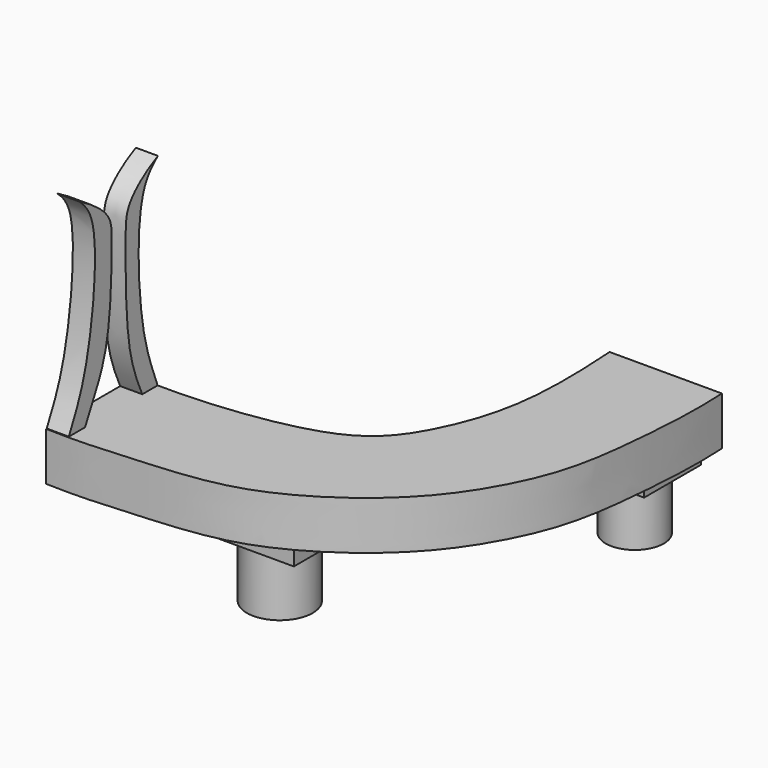
from build123d import *

# Parameters (mm, degrees)
F1_R     = 7.0155570226
F2_DEPTH = 18.542
F3_R     = 7.9467646893
F4_DEPTH = 18.542
F7_DEPTH = 5.334
F8_DEPTH = 11.684
F0_W     = 20.7544714212
F0_H     = 17.746578902
F0_W_2   = 19.8521018028
F0_H_2   = 17.1450003982
F9_DEPTH = 4.318


with BuildPart() as f2:
    # F1 (on Top) → F2 (new body)
    with BuildSketch(Plane.XY):
        with Locations((76.8517106771, 54.442897439)):
            Circle(F1_R)
    extrude(amount=-F2_DEPTH)



with BuildPart() as f4:
    # F3 (on Top) → F4 (new body)
    with BuildSketch(Plane.XY):
        with Locations((41.960131377, -9.023684077)):
            Circle(F3_R)
    extrude(amount=-F4_DEPTH)


with BuildPart() as f7:
    # F6 (on Right) → F7 (new body)
    with BuildSketch(Plane.YZ):
        with BuildLine():
            add(Edge.make_bspline(
                [(-27.004128322, 11.4234443754), (-24.9170712549, 15.6206381214), (-20.4925139948, 24.3371562752), (-17.3602385126, 54.0539118613), (-22.0986272096, 58.9304288492), (-23.8349272719, 60.4167338461)],
                knots=[0, 0, 0, 0, 0.323201421, 0.7663718509, 1, 1, 1, 1], degree=3))
            Line((-27.004128322, 11.4234443754), (-22.0986272096, 11.4234443754))
            add(Edge.make_bspline(
                [(-23.8349272719, 60.4167338461), (-20.3755259414, 58.5333244768), (-13.8305290902, 54.1752420005), (-13.9828351318, 46.9464555143), (-14.1446804387, 24.1753330063), (-19.9336931034, 16.1872758203), (-22.0986272096, 11.4234443754)],
                knots=[0, 0, 0, 0, 0.2285560301, 0.4078773473, 0.7293386816, 1, 1, 1, 1], degree=3))
        make_face()
    extrude(amount=F7_DEPTH)


with BuildPart() as f7b:
    # F6 (on Right) → F7, piece 2 (new body)
    with BuildSketch(Plane.YZ):
        with BuildLine():
            Line((-4.5958016999, 11.4234443754), (0, 11.4234443754))
            add(Edge.make_bspline(
                [(0, 11.4234443754), (-1.5558292644, 15.6668477759), (-5.6052633039, 24.4549985378), (-6.7930231719, 54.1771953118), (-1.846077584, 58.9573064034), (0, 60.4167338461)],
                knots=[0, 0, 0, 0, 0.3197343851, 0.7628518919, 1, 1, 1, 1], degree=3))
            add(Edge.make_bspline(
                [(0, 60.4167338461), (-3.8426967978, 58.6067863753), (-9.5985845649, 54.1181159991), (-9.7955748005, 46.9674516518), (-9.7992443925, 24.4412973301), (-6.835249773, 16.1643384386), (-4.5958016999, 11.4234443754)],
                knots=[0, 0, 0, 0, 0.2287475428, 0.4096869795, 0.733305586, 1, 1, 1, 1], degree=3))
        make_face()
    extrude(amount=F7_DEPTH)


with BuildPart() as f2_1:
    add(f2.part)

    add(f4.part)  # F8 merges F4

    add(f7.part)  # F8 merges F7

    add(f7b.part)  # F8 merges F7b
    # F5 (on Top) → F8 (join)
    with BuildSketch(Plane.XY):
        with BuildLine():
            Line((0, 0), (0, -27.0710531622))
            add(Edge.make_bspline(
                [(90.4240001332, 63.7673661113), (90.946889777, 54.9811213625), (89.7279496558, 36.9041024903), (87.016072715, 18.3355513143), (76.691665346, -0.8600546564), (62.441709707, -14.1630605577), (42.9008739567, -25.1598232125), (18.8968795163, -26.3894935088), (8.1307288286, -27.3928058719), (0, -27.0710531622)],
                knots=[0, 0, 0, 0, 0.1597346938, 0.2941128272, 0.434918622, 0.5709144334, 0.7158725886, 0.8630406795, 1, 1, 1, 1], degree=3))
            Line((90.4240001332, 63.7673661113), (63.3161887527, 63.7673661113))
            add(Edge.make_bspline(
                [(63.3161887527, 63.7673661113), (63.89678398, 55.0074521155), (64.5294580411, 37.0316782662), (57.7315789572, 17.9388743499), (46.9451503691, 3.0561166092), (12.5663186528, -0.6113698403), (4.3614469469, 0), (0, 0)],
                knots=[0, 0, 0, 0, 0.224429372, 0.4162435973, 0.596206914, 0.8431707494, 1, 1, 1, 1], degree=3))
        make_face()
    extrude(amount=F8_DEPTH)

    # F0 (on Top) → F9 (join)
    with BuildSketch(Plane.XY):
        with Locations((41.960131377, -8.873289451)):
            Rectangle(F0_W, F0_H)
        with Locations((76.4005258679, 53.9917089045)):
            Rectangle(F0_W_2, F0_H_2)
    extrude(amount=-F9_DEPTH)


solid = f2_1.part
